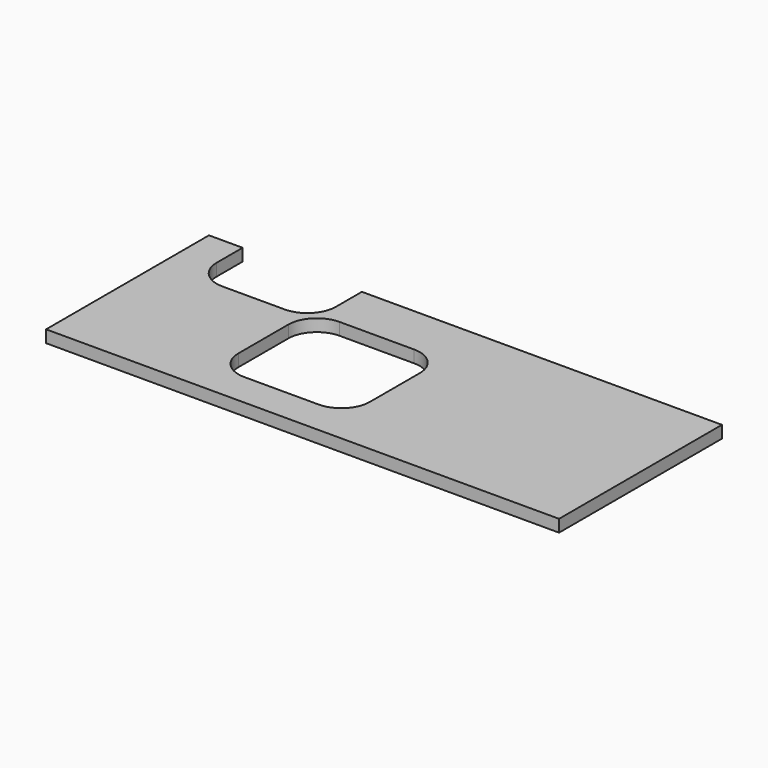
from build123d import *

# Parameters (mm, degrees)
F0_W     = 635
F0_H     = 38.1
F1_DEPTH = 1600
F2_W     = 372
F2_H     = 190
F3_DEPTH = 38.101
F4_R     = 88.9
F6_DEPTH = 38.101


with BuildPart() as f1:
    # F0 (on Right) → F1 (new body)
    with BuildSketch(Plane.YZ):
        with Locations((317.5, 19.05)):
            Rectangle(F0_W, F0_H)
    extrude(amount=F1_DEPTH)

    # F2 (on Top) → F3 (cut, through all)
    with BuildSketch(Plane.XY):
        with Locations((291, 540)):
            Rectangle(F2_W, F2_H)
    extrude(amount=F3_DEPTH, mode=Mode.SUBTRACT)

    # F4
    f4_edges = [f1.edges().sort_by_distance(p)[0] for p in [
        (477, 445, 19.05),
        (105, 445, 19.05),
    ]]
    fillet(f4_edges, radius=F4_R)

    # F5 (on Top) → F6 (cut, through all)
    with BuildSketch(Plane.XY):
        with BuildLine():
            Line((533.9, 105), (766.1, 105))
            ThreePointArc((766.1, 105), (828.961793, 131.038207), (855, 193.9))
            Line((855, 193.9), (855, 388.1))
            ThreePointArc((855, 388.1), (828.961793, 450.961793), (766.1, 477))
            Line((766.1, 477), (533.9, 477))
            ThreePointArc((533.9, 477), (471.038207, 450.961793), (445, 388.1))
            Line((445, 388.1), (445, 193.9))
            ThreePointArc((445, 193.9), (471.038207, 131.038207), (533.9, 105))
        make_face()
    extrude(amount=F6_DEPTH, mode=Mode.SUBTRACT)


solid = f1.part
